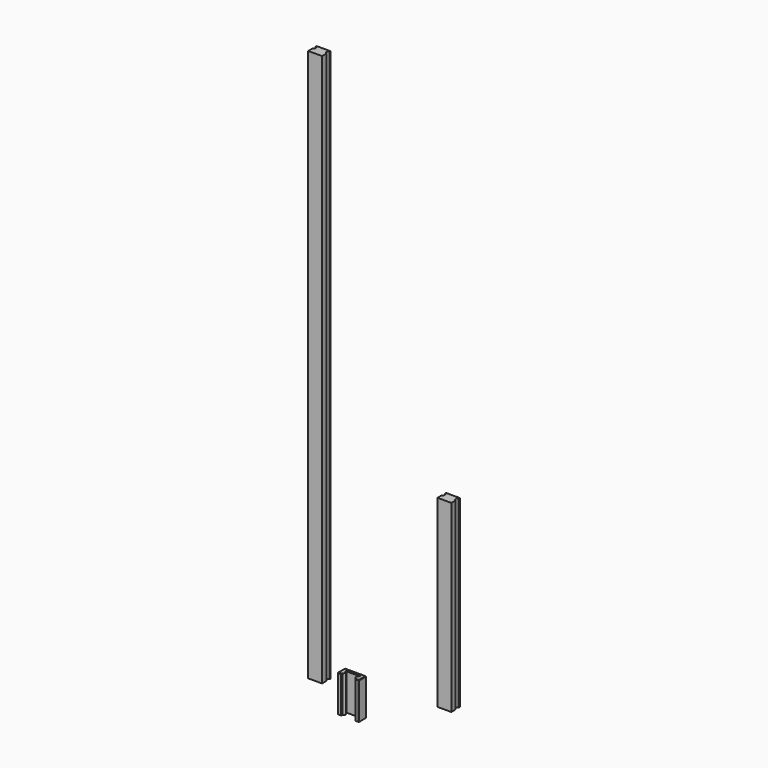
from build123d import *

# Parameters (mm, degrees)
F1_DEPTH = 600
F2_DEPTH = 200
F3_DEPTH = 40
F4_SIZE  = 0.508


with BuildPart() as f1:
    # F0 (on Top) → F1 (new body)
    with BuildSketch(Plane.XY):
        with BuildLine():
            Line((-54.807698, 6), (-54.807698, 0))
            Line((-54.807698, 0), (-39.807698, 0))
            Line((-39.807698, 0), (-39.807698, 6))
            ThreePointArc((-39.807698, 6), (-41.480499, 8), (-39.807698, 10))
            Line((-39.807698, 10), (-39.807698, 11.5))
            Line((-39.807698, 11.5), (-54.807698, 11.5))
            Line((-54.807698, 11.5), (-54.807698, 10))
            ThreePointArc((-54.807698, 10), (-53.134897, 8), (-54.807698, 6))
        make_face()
    extrude(amount=F1_DEPTH)


with BuildPart() as f2:
    # F0 (on Top) → F2 (new body)
    with BuildSketch(Plane.XY):
        with BuildLine():
            Line((63.538671, 33.569481), (63.538671, 27.569481))
            Line((63.538671, 27.569481), (78.538671, 27.569481))
            Line((78.538671, 27.569481), (78.538671, 33.569481))
            ThreePointArc((78.538671, 33.569481), (76.86587, 35.569481), (78.538671, 37.569481))
            Line((78.538671, 37.569481), (78.538671, 39.069481))
            Line((78.538671, 39.069481), (63.538671, 39.069481))
            Line((63.538671, 39.069481), (63.538671, 37.569481))
            ThreePointArc((63.538671, 37.569481), (65.211472, 35.569481), (63.538671, 33.569481))
        make_face()
    extrude(amount=F2_DEPTH)


with BuildPart() as f3:
    # F0 (on Top) → F3 (new body)
    with BuildSketch(Plane.XY):
        with BuildLine():
            Line((5.828797, -35.890774), (9.828797, -35.890774))
            Line((9.828797, -35.890774), (9.828797, -34.390774))
            ThreePointArc((9.828797, -34.390774), (11.501598, -32.390774), (9.828797, -30.390774))
            Line((9.828797, -30.390774), (9.828797, -28.890774))
            Line((9.828797, -28.890774), (24.828797, -28.890774))
            Line((24.828797, -28.890774), (24.828797, -30.390774))
            ThreePointArc((24.828797, -30.390774), (23.155996, -32.390774), (24.828797, -34.390774))
            Line((24.828797, -34.390774), (24.828797, -35.890774))
            Line((24.828797, -35.890774), (28.828797, -35.890774))
            Line((28.828797, -35.890774), (28.828797, -25.890774))
            Line((28.828797, -25.890774), (5.828797, -25.890774))
            Line((5.828797, -25.890774), (5.828797, -35.890774))
        make_face()
    extrude(amount=F3_DEPTH)

    # F4
    f4_edges = [f3.edges().sort_by_distance(p)[0] for p in [
        (17.328797, -25.890774, 40),
        (5.828797, -30.890774, 40),
        (28.828797, -30.890774, 40),
        (7.828797, -35.890774, 40),
        (26.828797, -35.890774, 40),
        (5.828797, -35.890774, 20),
        (28.828797, -35.890774, 20),
        (28.828797, -25.890774, 20),
        (17.328797, -28.890774, 40),
        (9.828797, -35.890774, 20),
        (24.828797, -35.890774, 20),
    ]]
    chamfer(f4_edges, length=F4_SIZE)


solid = Compound([f1.part, f2.part, f3.part])
